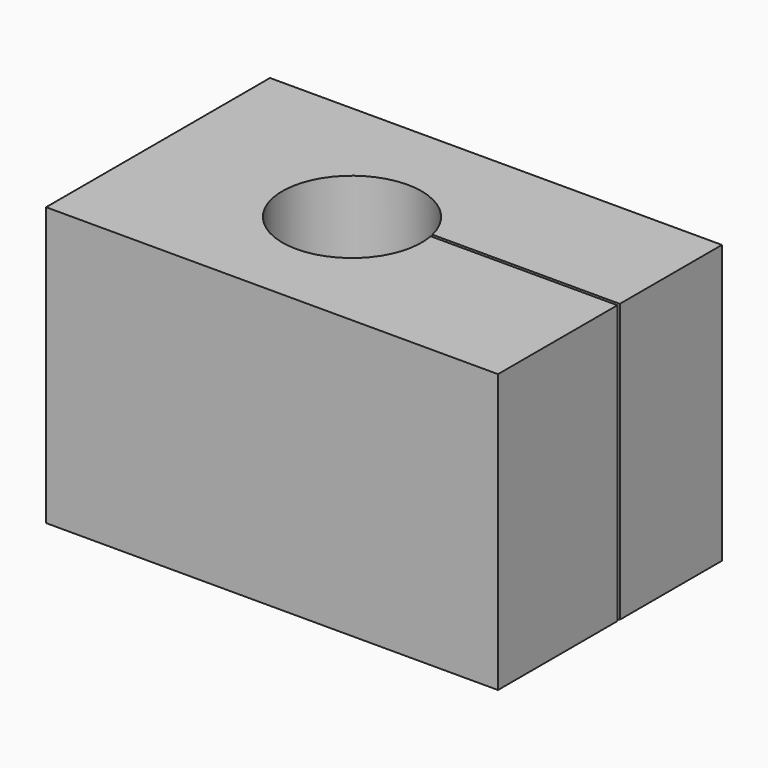
from build123d import *

# Parameters (mm, degrees)
F1_DEPTH = 24.94


with BuildPart() as f1:
    # F0 (on Top) → F1 (new body)
    with BuildSketch(Plane.XY):
        with BuildLine():
            Line((24.469849, 17.57076), (-16.060151, 17.57076))
            Line((-16.060151, 17.57076), (-16.060151, -7.52924))
            Line((-16.060151, -7.52924), (24.469849, -7.52924))
            Line((24.469849, -7.52924), (24.469849, 5.85076))
            Line((24.469849, 5.85076), (7.723986, 5.85076))
            ThreePointArc((7.723986, 5.85076), (-4.527501, 3.425448), (7.667431, 6.12076))
            Line((7.667431, 6.12076), (24.469849, 6.12076))
            Line((24.469849, 6.12076), (24.469849, 17.57076))
        make_face()
    extrude(amount=F1_DEPTH)


solid = f1.part
